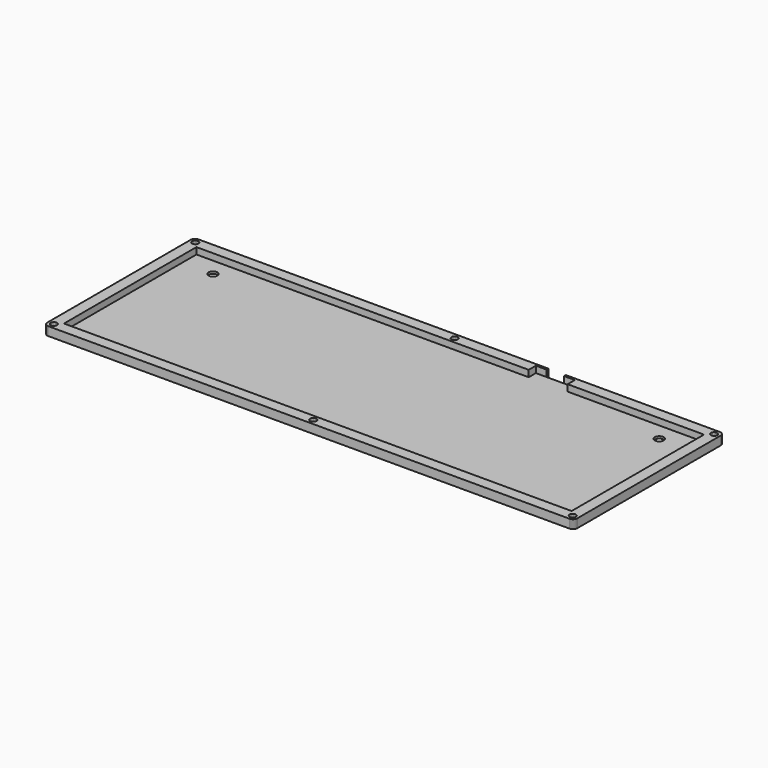
from build123d import *

# Parameters (mm, degrees)
F1_DEPTH = 1
F2_DEPTH = 4
F3_R     = 2.05
F4_DEPTH = 25


with BuildPart() as f1:
    # F0 (on Top) → F1 (new body)
    with BuildSketch(Plane.XY):
        Polygon((53.949147, 42.163581), (48.999147, 42.163581), (40.999147, 42.163581), (36.049147, 42.163581), (36.049147, 38.026281), (-116.606033, 38.026281), (-116.606033, -38.026369), (116.606147, -38.026369), (116.606147, 38.026281), (53.949147, 38.026281), align=None)
    extrude(amount=F1_DEPTH)

    # F0 (on Top) → F2 (join)
    with BuildSketch(Plane.XY):
        Polygon((119.913147, 43.169081), (119.756147, 43.174681), (48.999147, 43.175095), (48.999147, 42.163581), (53.949147, 42.163581), (53.949147, 38.026281), (116.606147, 38.026281), (116.606147, -38.026369), (-116.606033, -38.026369), (-116.606033, 38.026281), (36.049147, 38.026281), (36.049147, 42.163581), (40.999147, 42.163581), (40.999147, 43.175141), (-119.756233, 43.176081), (-119.913333, 43.169081), (-120.069053, 43.151081), (-120.223393, 43.119281), (-120.374973, 43.077981), (-120.522423, 43.022981), (-120.664363, 42.958081), (-120.800793, 42.881181), (-120.931701, 42.794381), (-121.055724, 42.696281), (-121.171481, 42.590081), (-121.277589, 42.474381), (-121.375429, 42.350581), (-121.462247, 42.219681), (-121.539416, 42.083181), (-121.604184, 41.941381), (-121.659306, 41.793881), (-121.700647, 41.642181), (-121.732342, 41.487681), (-121.750256, 41.332081), (-121.755768, 41.175181), (-121.757146, -41.176549), (-121.750256, -41.332269), (-121.732342, -41.487989), (-121.700647, -41.642329), (-121.659306, -41.793909), (-121.604184, -41.941359), (-121.539416, -42.083299), (-121.462247, -42.219719), (-121.375429, -42.350636), (-121.277589, -42.474659), (-121.171481, -42.590416), (-121.055724, -42.696524), (-120.931701, -42.794364), (-120.800793, -42.881179), (-120.664363, -42.958351), (-120.522423, -43.023118), (-120.374973, -43.07824), (-120.223393, -43.119581), (-120.069053, -43.151276), (-119.913333, -43.16919), (-119.756233, -43.17608), (119.756147, -43.174702), (119.913147, -43.16919), (120.069147, -43.151276), (120.223147, -43.119581), (120.375147, -43.07824), (120.521147, -43.023118), (120.664147, -42.958351), (120.802147, -42.881179), (120.933147, -42.794364), (121.056147, -42.696524), (121.170147, -42.590416), (121.278147, -42.474659), (121.374147, -42.350636), (121.462147, -42.219719), (121.538147, -42.083299), (121.604147, -41.941359), (121.660147, -41.793909), (121.702147, -41.642329), (121.733147, -41.487989), (121.750147, -41.332269), (121.757147, -41.176549), (121.757147, 41.175181), (121.750147, 41.332081), (121.733147, 41.487681), (121.702147, 41.642181), (121.660147, 41.793881), (121.604147, 41.941381), (121.538147, 42.083181), (121.462147, 42.219681), (121.374147, 42.350581), (121.278147, 42.474381), (121.170147, 42.590081), (121.056147, 42.696281), (120.933147, 42.794381), (120.802147, 42.881181), (120.664147, 42.958081), (120.521147, 43.022981), (120.375147, 43.077981), (120.223147, 43.119281), (120.069147, 43.151081), align=None)
        Polygon((-120.048373, -39.407139), (-119.637723, -39.197699), (-119.181593, -39.126009), (-118.726843, -39.197699), (-118.314823, -39.407139), (-117.988223, -39.733739), (-117.778743, -40.145779), (-117.705713, -40.600529), (-117.778743, -41.056659), (-117.988223, -41.467309), (-118.314823, -41.793909), (-118.726843, -42.003369), (-119.181593, -42.075029), (-119.637723, -42.003369), (-120.048373, -41.793909), (-120.374973, -41.467309), (-120.584433, -41.056659), (-120.656093, -40.600529), (-120.584433, -40.145779), (-120.374973, -39.733739), align=None, mode=Mode.SUBTRACT)
        Polygon((-0.867853, -39.407139), (-0.456853, -39.197699), (-0.000853, -39.126009), (0.455147, -39.197699), (0.867147, -39.407139), (1.194147, -39.733739), (1.402147, -40.145779), (1.475147, -40.600529), (1.402147, -41.056659), (1.194147, -41.467309), (0.867147, -41.793909), (0.455147, -42.003369), (-0.000853, -42.075029), (-0.456853, -42.003369), (-0.867853, -41.793909), (-1.192853, -41.467309), (-1.402853, -41.056659), (-1.474853, -40.600529), (-1.402853, -40.145779), (-1.192853, -39.733739), align=None, mode=Mode.SUBTRACT)
        Polygon((118.315147, -39.407139), (118.725147, -39.197699), (119.182147, -39.126009), (119.638147, -39.197699), (120.048147, -39.407139), (120.375147, -39.733739), (120.585147, -40.145779), (120.656147, -40.600529), (120.585147, -41.056659), (120.375147, -41.467309), (120.048147, -41.793909), (119.638147, -42.003369), (119.182147, -42.075029), (118.725147, -42.003369), (118.315147, -41.793909), (117.988147, -41.467309), (117.779147, -41.056659), (117.707147, -40.600529), (117.779147, -40.145779), (117.988147, -39.733739), align=None, mode=Mode.SUBTRACT)
        Polygon((-120.048373, 41.793881), (-119.637723, 42.003081), (-119.181593, 42.074681), (-118.726843, 42.003081), (-118.314823, 41.793881), (-117.988223, 41.467281), (-117.778743, 41.056581), (-117.705713, 40.600481), (-117.778743, 40.145681), (-117.988223, 39.733681), (-118.314823, 39.406981), (-118.726843, 39.197481), (-119.181593, 39.124481), (-119.637723, 39.197481), (-120.048373, 39.406981), (-120.374973, 39.733681), (-120.584433, 40.145681), (-120.656093, 40.600481), (-120.584433, 41.056581), (-120.374973, 41.467281), align=None, mode=Mode.SUBTRACT)
        Polygon((-0.867853, 41.793881), (-0.456853, 42.003081), (-0.000853, 42.074681), (0.455147, 42.003081), (0.867147, 41.793881), (1.194147, 41.467281), (1.402147, 41.056581), (1.475147, 40.600481), (1.402147, 40.145681), (1.194147, 39.733681), (0.867147, 39.406981), (0.455147, 39.197481), (-0.000853, 39.124481), (-0.456853, 39.197481), (-0.867853, 39.406981), (-1.192853, 39.733681), (-1.402853, 40.145681), (-1.474853, 40.600481), (-1.402853, 41.056581), (-1.192853, 41.467281), align=None, mode=Mode.SUBTRACT)
        Polygon((118.315147, 41.793881), (118.725147, 42.003081), (119.182147, 42.074681), (119.638147, 42.003081), (120.048147, 41.793881), (120.375147, 41.467281), (120.585147, 41.056581), (120.656147, 40.600481), (120.585147, 40.145681), (120.375147, 39.733681), (120.048147, 39.406981), (119.638147, 39.197481), (119.182147, 39.124481), (118.725147, 39.197481), (118.315147, 39.406981), (117.988147, 39.733681), (117.779147, 40.145681), (117.707147, 40.600481), (117.779147, 41.056581), (117.988147, 41.467281), align=None, mode=Mode.SUBTRACT)
    extrude(amount=F2_DEPTH)

    # F3 (on face) → F4 (cut)
    with BuildSketch(Plane.XY.offset(1)):
        with Locations((-102.5, 29.926281)):
            Circle(F3_R)
        with BuildLine():
            ThreePointArc((104.55, 29.926281), (102.5, 31.976281), (100.45, 29.926281))
            ThreePointArc((100.45, 29.926281), (102.5, 27.876281), (104.55, 29.926281))
        make_face()
    extrude(amount=-F4_DEPTH, mode=Mode.SUBTRACT)


solid = f1.part
